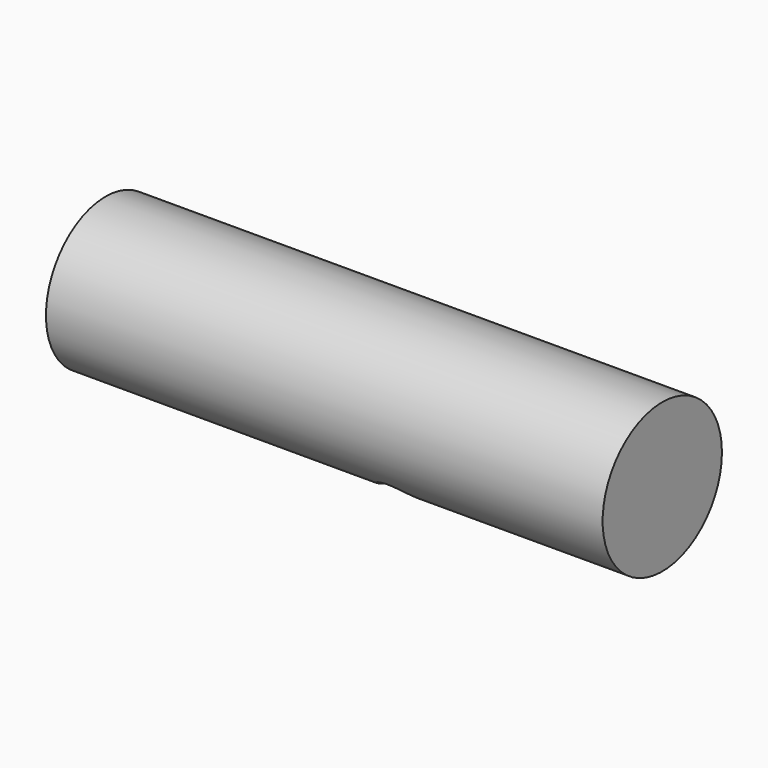
from build123d import *

# Parameters (mm, degrees)
F0_R     = 7.5
F1_DEPTH = 56
F2_R     = 2.5
F3_DEPTH = 20


with BuildPart() as f1:
    # F0 (on Right) → F1 (new body)
    with BuildSketch(Plane.YZ):
        with Locations((-29.886037, 17.431682)):
            Circle(F0_R)
    extrude(amount=F1_DEPTH)

    # F2 (on Top) → F3 (cut)
    with BuildSketch(Plane.XY):
        with Locations((32.741919, -32.830305)):
            Circle(F2_R)
    extrude(amount=F3_DEPTH, mode=Mode.SUBTRACT)


solid = f1.part
